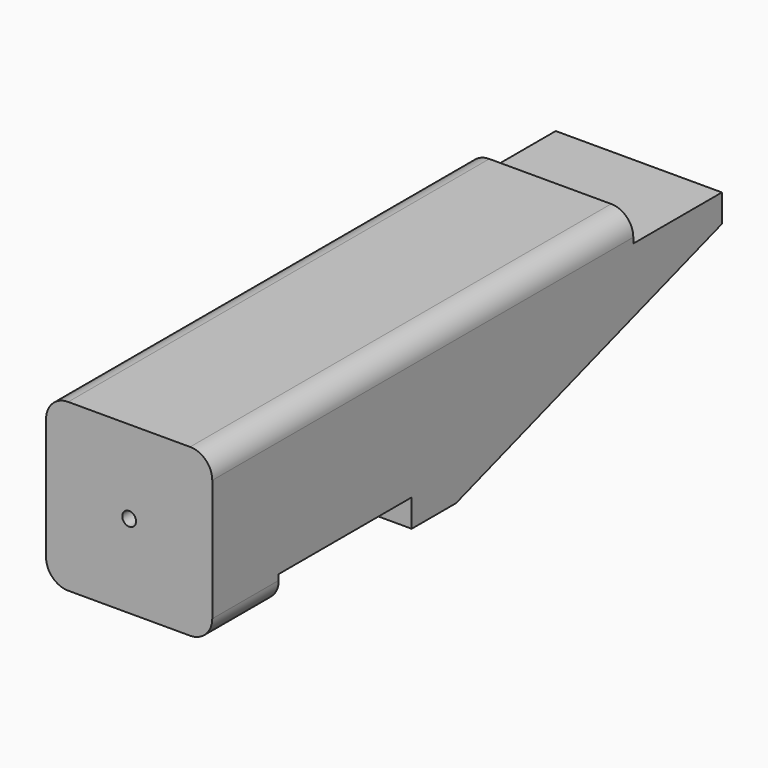
from build123d import *

# Parameters (mm, degrees)
F1_DEPTH = 38.1
F2_R     = 1.5875
F3_DEPTH = 6.35
F4_R     = 5.08


with BuildPart() as f1:
    # F0 (on Right) → F1 (new body)
    with BuildSketch(Plane.YZ):
        Polygon((120.65, 0), (0, 0), (0, -38.1), (19.05, -38.1), (19.05, -31.75), (57.15, -31.75), (57.15, -38.1), (69.85, -38.1), (146.05, -12.7), (146.05, -6.35), (120.65, -6.35), align=None)
    extrude(amount=F1_DEPTH)

    # F2 (on face) → F3 (cut)
    with BuildSketch(Plane.XZ):
        with Locations((19.05, -19.05)):
            Circle(F2_R)
    extrude(amount=-F3_DEPTH, mode=Mode.SUBTRACT)

    # F4
    f4_edges = [f1.edges().sort_by_distance(p)[0] for p in [
        (38.1, 60.325, 0),
        (0, 60.325, 0),
        (38.1, 9.525, -38.1),
        (0, 9.525, -38.1),
    ]]
    fillet(f4_edges, radius=F4_R)


solid = f1.part
